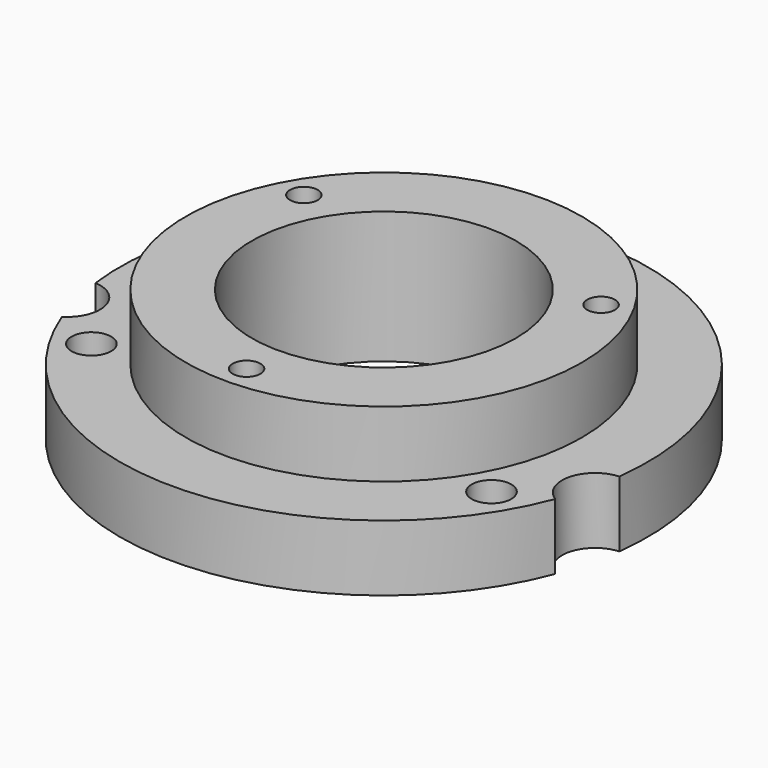
from build123d import *

# Parameters (mm, degrees)
SKETCH_R      = 3
SKETCH_R_2    = 2.1
SKETCH_R_3    = 20
PAD_DEPTH     = 20
SKETCH001_R   = 40
SKETCH001_R_2 = 30
POCKET_DEPTH  = 10


with BuildPart() as part:
    # Sketch → Pad (new body)
    with BuildSketch(Plane.XY):
        with BuildLine():
            ThreePointArc((-37.373806, -14.254775), (0, -40), (37.373806, -14.254775))
            ThreePointArc((39.685017, -5.009931), (35.149287, -8.787322), (37.373806, -14.254775))
            ThreePointArc((39.685017, -5.009931), (0, 40), (-39.685017, -5.009931))
            ThreePointArc((-37.373806, -14.254775), (-35.149287, -8.787322), (-39.685017, -5.009931))
        make_face()
        with Locations((0, 35)):
            Circle(SKETCH_R, mode=Mode.SUBTRACT)
        with Locations((-30.310889, -17.5)):
            Circle(SKETCH_R, mode=Mode.SUBTRACT)
        with Locations((30.310889, -17.5)):
            Circle(SKETCH_R, mode=Mode.SUBTRACT)
        with Locations((-22.51666, 13)):
            Circle(SKETCH_R_2, mode=Mode.SUBTRACT)
        with Locations((22.51666, 13)):
            Circle(SKETCH_R_2, mode=Mode.SUBTRACT)
        with Locations((0, -26)):
            Circle(SKETCH_R_2, mode=Mode.SUBTRACT)
        Circle(SKETCH_R_3, mode=Mode.SUBTRACT)
    extrude(amount=PAD_DEPTH)

    # Sketch001 (on Face13 of Pad) → Pocket (cut)
    with BuildSketch(Plane.XY.offset(20)):
        Circle(SKETCH001_R)
        Circle(SKETCH001_R_2, mode=Mode.SUBTRACT)
    extrude(amount=-POCKET_DEPTH, mode=Mode.SUBTRACT)


solid = part.part
